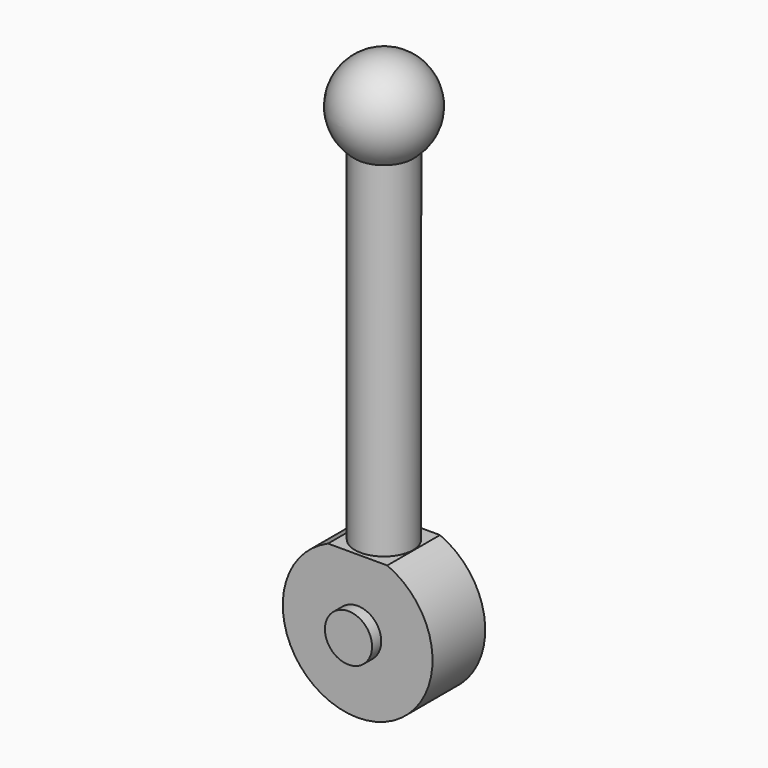
from build123d import *

# Parameters (mm, degrees)
F0_R     = 2.16
F1_DEPTH = 1.9
F3_R     = 0.68
F4_DEPTH = 0.33
F5_R     = 0.68
F6_DEPTH = 0.33
F7_DEPTH = 25
F8_R     = 0.84
F9_DEPTH = 11


with BuildPart() as f1:
    # F0 (on Front) → F1 (new body)
    with BuildSketch(Plane.XZ):
        Circle(F0_R)
    extrude(amount=F1_DEPTH)

    # F3 (on face) → F4 (join)
    with BuildSketch(Plane.XZ.offset(1.9)):
        Circle(F3_R)
    extrude(amount=F4_DEPTH)

    # F5 (on face) → F6 (join)
    with BuildSketch(Plane(origin=(0, 0, 0), x_dir=(-1, 0, 0), z_dir=(0, 1, 0))):
        Circle(F5_R)
    extrude(amount=F6_DEPTH)

    # F2 (on face) → F7 (cut)
    with BuildSketch(Plane.XZ.offset(1.9)):
        with BuildLine():
            ThreePointArc((0.854606, 1.983746), (0, 2.16), (-0.854606, 1.983746))
            Line((-0.854606, 1.983746), (0.854606, 1.983746))
        make_face()
    extrude(amount=-F7_DEPTH, mode=Mode.SUBTRACT)

    # F8 (on face) → F9 (join)
    with BuildSketch(Plane.XY.offset(1.983746)):
        with Locations((0, -0.95)):
            Circle(F8_R)
    extrude(amount=F9_DEPTH)

    # F10 (on face) → F11 (revolve)
    with BuildSketch(Plane.XY.offset(12.983746)):
        with BuildLine():
            Line((0, -2.305), (0, 0.405))
            ThreePointArc((0, 0.405), (-1.355, -0.95), (0, -2.305))
        make_face()
        with BuildLine():
            Line((0, -0.11), (0, 0.405))
            ThreePointArc((0, 0.405), (-1.355, -0.95), (0, -2.305))
            Line((0, -2.305), (0, -1.79))
            ThreePointArc((0, -1.79), (-0.84, -0.95), (0, -0.11))
        make_face()
    revolve(axis=Axis((0, -0.95, 12.983746), (0, -1, 0)))


solid = f1.part
